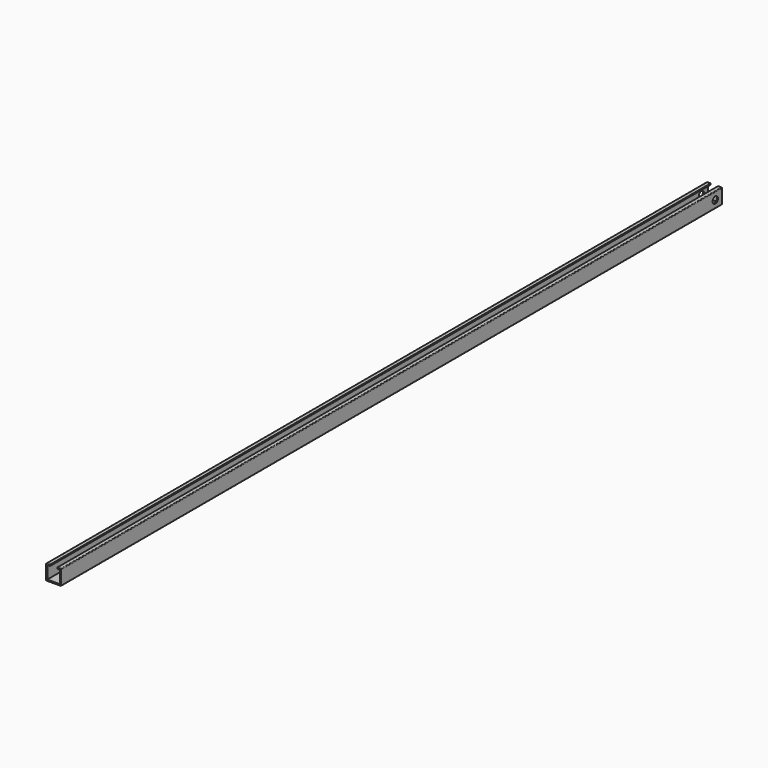
from build123d import *

# Parameters (mm, degrees)
F1_DEPTH = 2000
F2_R     = 8
F3_DEPTH = 36.701


with BuildPart() as f1:
    # F0 (on Front) → F1 (new body)
    with BuildSketch(Plane.XZ):
        with BuildLine():
            Line((15.35, 15.35), (15.35, -15.35))
            Line((15.35, -15.35), (-15.35, -15.35))
            Line((-15.35, -15.35), (-15.35, 15.35))
            Line((-15.35, 15.35), (-9, 15.35))
            Line((-9, 15.35), (-9, 18.35))
            Line((-9, 18.35), (-16.85, 18.35))
            ThreePointArc((-16.85, 18.35), (-17.91066, 17.91066), (-18.35, 16.85))
            Line((-18.35, 16.85), (-18.35, -16.85))
            ThreePointArc((-18.35, -16.85), (-17.91066, -17.91066), (-16.85, -18.35))
            Line((-16.85, -18.35), (16.85, -18.35))
            ThreePointArc((16.85, -18.35), (17.91066, -17.91066), (18.35, -16.85))
            Line((18.35, -16.85), (18.35, 16.85))
            ThreePointArc((18.35, 16.85), (17.91066, 17.91066), (16.85, 18.35))
            Line((16.85, 18.35), (9, 18.35))
            Line((9, 18.35), (9, 15.35))
            Line((9, 15.35), (15.35, 15.35))
        make_face()
    extrude(amount=F1_DEPTH)

    # F2 (on face) → F3 (cut, through all)
    with BuildSketch(Plane.YZ.offset(18.35)):
        with Locations((-20, 0)):
            Circle(F2_R)
    extrude(amount=-F3_DEPTH, mode=Mode.SUBTRACT)


solid = f1.part
